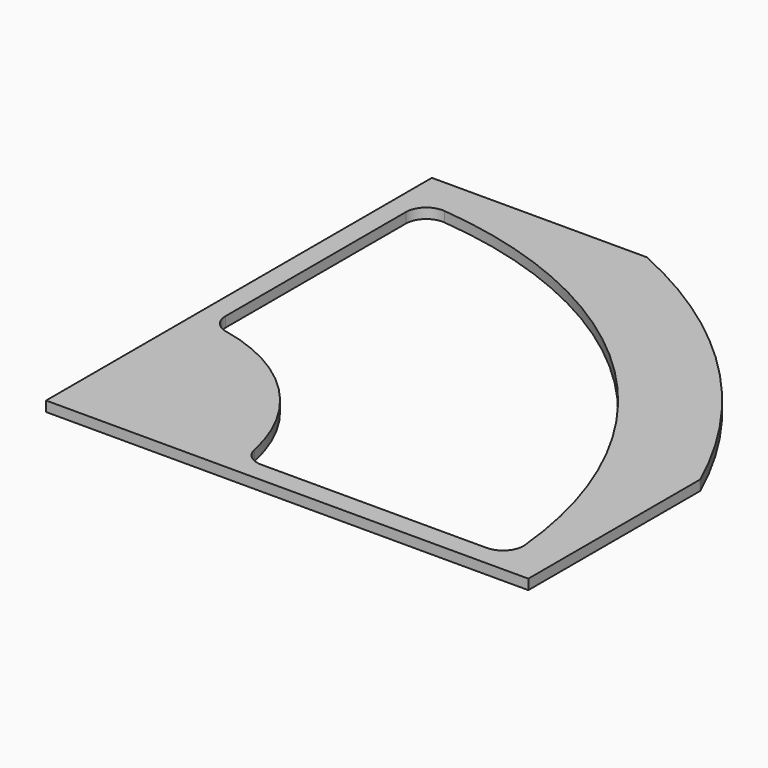
from build123d import *

# Parameters (mm, degrees)
F1_DEPTH = 3.175


with BuildPart() as f1:
    # F0 (on Top) → F1 (new body)
    with BuildSketch(Plane.XY):
        with BuildLine():
            Line((0, 150.8125), (0, 0))
            Line((0, 0), (150.8125, 0))
            Line((150.8125, 0), (150.8125, 67.18333))
            ThreePointArc((150.8125, 67.18333), (116.74333, 116.74333), (67.18333, 150.8125))
            Line((67.18333, 150.8125), (0, 150.8125))
        make_face()
        with BuildLine():
            ThreePointArc((11.43, 55.995336), (7.781311, 58.200947), (6.35, 62.217039))
            Line((6.35, 62.217039), (6.35, 132.74386))
            ThreePointArc((6.35, 132.74386), (8.429036, 137.442942), (13.304762, 139.064997))
            ThreePointArc((13.304762, 139.064997), (98.782817, 98.782817), (139.064997, 13.304762))
            ThreePointArc((139.064997, 13.304762), (137.442942, 8.429036), (132.74386, 6.35))
            Line((132.74386, 6.35), (62.217039, 6.35))
            ThreePointArc((62.217039, 6.35), (58.200947, 7.781311), (55.995336, 11.43))
            ThreePointArc((55.995336, 11.43), (40.411153, 40.411153), (11.43, 55.995336))
        make_face(mode=Mode.SUBTRACT)
    extrude(amount=F1_DEPTH)


solid = f1.part
